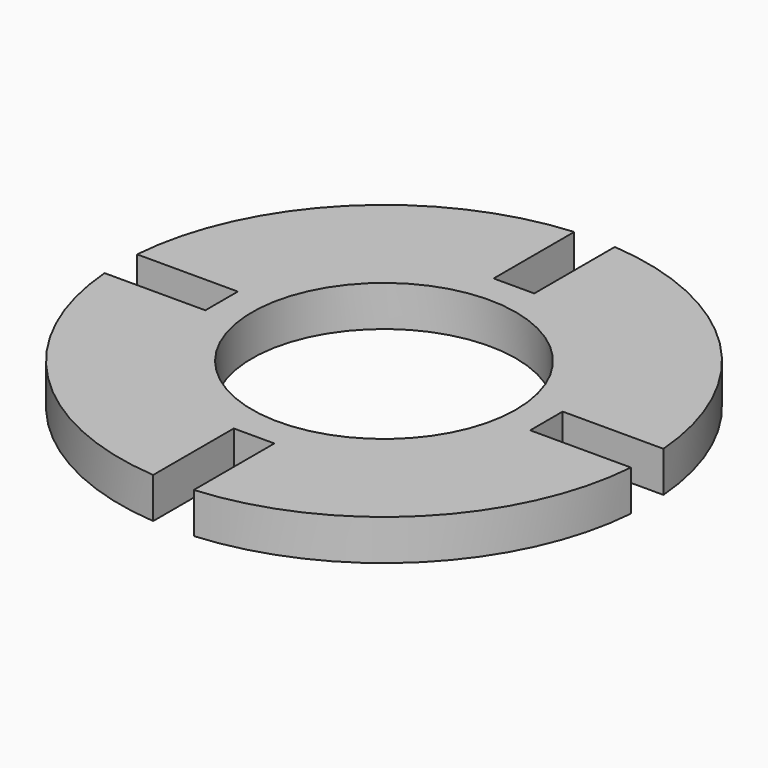
from build123d import *

# Parameters (mm, degrees)
SKETCH003_R           = 2.3
SKETCH003_W           = 2
SKETCH003_H           = 5
EXTRUDE003_DEPTH      = 5
EXTRUDE003_DEPTH_BACK = 3
ARRAY001_COUNT        = 4
SKETCH012_R           = 13
SKETCH012_R_2         = 6.5
EXTRUDE012_DEPTH      = 2


with BuildPart() as body:
    # Sketch003 → Extrude003 (new body, two sides)
    with BuildSketch(Plane.XY) as extrude003_sk:
        with Locations((0, 38.25)):
            Circle(SKETCH003_R)
        with Locations((0, 10.5)):
            Rectangle(SKETCH003_W, SKETCH003_H)
    extrude(amount=EXTRUDE003_DEPTH)
    extrude(extrude003_sk.sketch, amount=-EXTRUDE003_DEPTH_BACK)

    # Array001: Body ×4 about axis
    array001_axis = Axis((0, 0, 0), (0, 0, 1))


with BuildPart() as body_1:
    add(body.part)
    for i in range(1, ARRAY001_COUNT):
        add(body.part.rotate(array001_axis, i * 360 / ARRAY001_COUNT))


with BuildPart() as cut003:
    # Sketch012 → Extrude012 (new body)
    with BuildSketch(Plane.XY.offset(2)):
        Circle(SKETCH012_R)
        Circle(SKETCH012_R_2, mode=Mode.SUBTRACT)
    extrude(amount=-EXTRUDE012_DEPTH)

    # Cut003: cut Body
    add(body_1.part, mode=Mode.SUBTRACT)


solid = cut003.part
